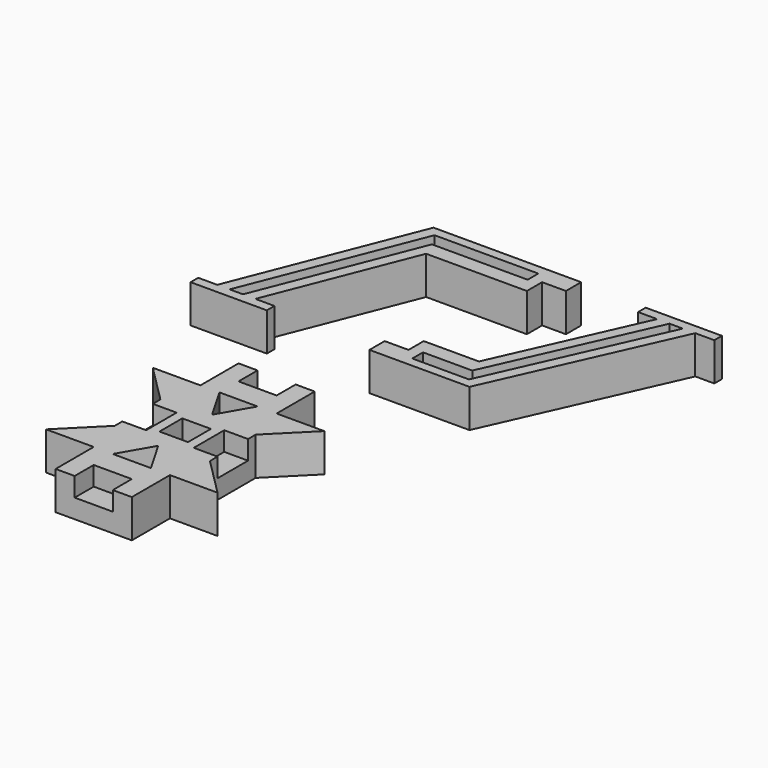
from build123d import *

# Parameters (mm, degrees)
PAD002_DEPTH            = 20
SKETCH008_W             = 15
SKETCH008_H             = 15
POCKET005_DEPTH         = 20
SKETCH_W                = 20
SKETCH_H                = 12.5
POCKET_DEPTH            = 10
SKETCH009_W             = 12.5
SKETCH009_H             = 20
POCKET006_DEPTH         = 10
POCKET007_DEPTH         = 20
PAD_DEPTH               = 20
SKETCH015_W             = 12.5
SKETCH015_H             = 20
POCKET010_DEPTH         = 10
POCKET011_DEPTH         = 20.001
PAD003_DEPTH            = 20
SKETCH014_W             = 12.5
SKETCH014_H             = 20
POCKET009_DEPTH         = 10
POCKET012_DEPTH         = 20.001
BODY003_PLACEMENT_ANGLE = 180


with BuildPart() as star:
    # Sketch002 → Pad002 (new body)
    with BuildSketch(Plane.XY):
        Polygon((8.869997, -139.000003), (33.869997, -139.000003), (33.869997, -164.000003), (73.869997, -164.000003), (73.869997, -139.000003), (98.869997, -139.000003), (78.869998, -119.000002), (78.869998, -89.000003), (98.87, -69.000003), (73.87, -69.000003), (73.87, -44.000003), (33.87, -44.000003), (33.869997, -69.000003), (8.869997, -69), (28.869998, -89.000002), (28.869998, -119.000001), align=None)
    extrude(amount=PAD002_DEPTH)

    # Sketch008 → Pocket005 (cut)
    with BuildSketch(Plane.XY):
        with Locations((53.87, -104)):
            Rectangle(SKETCH008_W, SKETCH008_H)
    extrude(amount=POCKET005_DEPTH, mode=Mode.SUBTRACT)

    # Sketch (on Face5 of Pocket005) → Pocket (cut)
    with BuildSketch(Plane.XY.offset(20)):
        with Locations((53.869997, -157.750003)):
            Rectangle(SKETCH_W, SKETCH_H)
        with Locations((53.869997, -50.250003)):
            Rectangle(SKETCH_W, SKETCH_H)
    extrude(amount=-POCKET_DEPTH, mode=Mode.SUBTRACT)

    # Sketch009 (on Face5 of Pocket) → Pocket006 (cut)
    with BuildSketch(Plane.XY.offset(20)):
        with Locations((72.619998, -104.000003)):
            Rectangle(SKETCH009_W, SKETCH009_H)
        with Locations((35.119998, -104.000002)):
            Rectangle(SKETCH009_W, SKETCH009_H)
    extrude(amount=-POCKET006_DEPTH, mode=Mode.SUBTRACT)

    # Sketch010 (on Face5 of Pocket006) → Pocket007 (cut)
    with BuildSketch(Plane.XY.offset(20)):
        Polygon((43.869997, -139.000003), (53.869997, -121.679495), (63.869997, -139.000003), align=None)
        Polygon((43.87, -69.000003), (63.87, -69.000003), (53.87, -86.320511), align=None)
    extrude(amount=-POCKET007_DEPTH, mode=Mode.SUBTRACT)


with BuildPart() as long_part:
    # Sketch011 → Pad (new body)
    with BuildSketch(Plane.XY):
        Polygon((30, 5), (59.605263, 80), (125, 80), (125, 100), (47.5, 100), (10, 5), (0, 5), (0, 0), (40, 0), (40, 5), align=None)
    extrude(amount=PAD_DEPTH)

    # Sketch015 (on Face3 of Pad) → Pocket010 (cut)
    with BuildSketch(Plane.XZ.offset(-80)):
        with Locations((118.75, 10)):
            Rectangle(SKETCH015_W, SKETCH015_H)
    extrude(amount=-POCKET010_DEPTH, mode=Mode.SUBTRACT)

    # Sketch016 (on Face5 of Pocket010) → Pocket011 (cut, through all)
    with BuildSketch(Plane.XY.offset(20)):
        Polygon((16.5, 5), (52.026316, 95), (106.5, 95), (106.5, 88), (56.263158, 88), (23.5, 5), align=None)
    extrude(amount=-POCKET011_DEPTH, mode=Mode.SUBTRACT)


with BuildPart() as long_part_1:
    # Body placement: moved
    add(long_part.part.moved(Location((-26.4855, 0, 0))))


with BuildPart() as short_part:
    # Sketch013 → Pad003 (new body)
    with BuildSketch(Plane.XY):
        Polygon((22.5, 5), (56.052632, 80), (97.5, 80), (97.5, 100), (45, 100), (2.5, 5), (-7.5, 5), (-7.5, 0), (32.5, 0), (32.5, 5), align=None)
    extrude(amount=PAD003_DEPTH)

    # Sketch014 (on Face2 of Pad003) → Pocket009 (cut)
    with BuildSketch(Plane.XZ.offset(-80)):
        with Locations((91.25, 10)):
            Rectangle(SKETCH014_W, SKETCH014_H)
    extrude(amount=-POCKET009_DEPTH, mode=Mode.SUBTRACT)

    # Sketch017 (on Face5 of Pocket009) → Pocket012 (cut, through all)
    with BuildSketch(Plane.XY.offset(20)):
        Polygon((9, 5), (49.263158, 95), (79, 95), (79, 88), (53.131579, 88), (16, 5), align=None)
    extrude(amount=-POCKET012_DEPTH, mode=Mode.SUBTRACT)


with BuildPart() as short_part_1:
    # Body003 placement: moved
    add(short_part.part.moved(Location((165.795, 98.8609, 0))).rotate(Axis((165.795, 98.8609, 0), (0, 0, 1)), BODY003_PLACEMENT_ANGLE))


solid = Compound([star.part, long_part_1.part, short_part_1.part])
